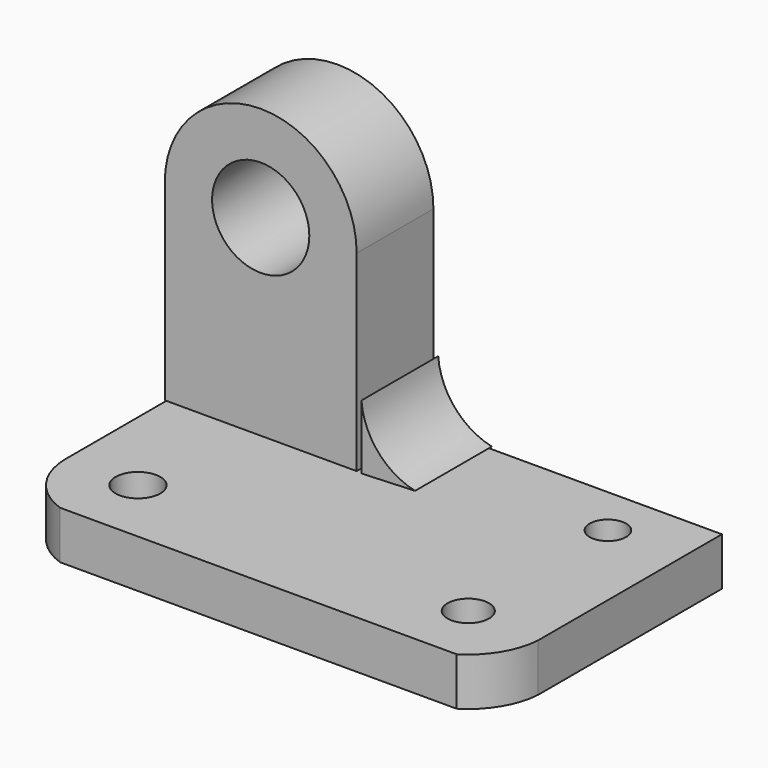
from build123d import *

# Parameters (mm, degrees)
F0_W      = 63.5
F0_H      = 6.35
F1_DEPTH  = 38.1
F2_W      = 25.4
F2_H      = 25.4
F3_DEPTH  = 12.7
F5_DEPTH  = 12.7
F7_DEPTH  = 6.35
F8_R      = 6.433108
F9_DEPTH  = 12.7
F10_R     = 2.414951
F10_R_2   = 2.749165
F10_R_3   = 2.964845
F11_DEPTH = 6.35


with BuildPart() as f1:
    # F0 (on Front) → F1 (new body)
    with BuildSketch(Plane.XZ):
        with Locations((-38.883258, 3.175)):
            Rectangle(F0_W, F0_H)
    extrude(amount=F1_DEPTH)

    # F6 (on face) → F7 (cut)
    with BuildSketch(Plane.XY.offset(6.35)):
        with BuildLine():
            ThreePointArc((-64.263351, -38.1), (-68.81105, -34.726496), (-70.633258, -29.365372))
            Line((-70.633258, -29.365372), (-70.633258, -38.1))
            Line((-70.633258, -38.1), (-64.263351, -38.1))
        make_face()
        with BuildLine():
            ThreePointArc((-7.133258, -30.40603), (-8.517957, -34.817601), (-11.774521, -38.1))
            Line((-11.774521, -38.1), (-7.133258, -38.1))
            Line((-7.133258, -38.1), (-7.133258, -30.40603))
        make_face()
    extrude(amount=-F7_DEPTH, mode=Mode.SUBTRACT)

    # F10 (on face) → F11 (cut)
    with BuildSketch(Plane.XY.offset(6.35)):
        with Locations((-16.892102, -6.6675)):
            Circle(F10_R)
        with Locations((-16.892102, -29.766033)):
            Circle(F10_R_2)
        with Locations((-61.131514, -29.126037)):
            Circle(F10_R_3)
    extrude(amount=-F11_DEPTH, mode=Mode.SUBTRACT)


with BuildPart() as f3:
    # F2 (on Front) → F3 (new body)
    with BuildSketch(Plane.XZ):
        with BuildLine():
            ThreePointArc((-45.321436, 31.851328), (-58.021436, 44.551328), (-70.721436, 31.851328))
            Line((-70.721436, 31.851328), (-45.321436, 31.851328))
        make_face()
        with Locations((-58.021436, 19.151328)):
            Rectangle(F2_W, F2_H)
    extrude(amount=F3_DEPTH)

    # F8 (on face) → F9 (cut)
    with BuildSketch(Plane.XZ.offset(12.7)):
        with Locations((-58.021436, 31.851328)):
            Circle(F8_R)
    extrude(amount=-F9_DEPTH, mode=Mode.SUBTRACT)


with BuildPart() as f5:
    # F4 (on Front) → F5 (new body)
    with BuildSketch(Plane.XZ):
        with BuildLine():
            ThreePointArc((-37.59335, 6.6675), (-42.493733, 9.614386), (-44.686437, 14.895478))
            Line((-44.686437, 14.895478), (-44.686437, 6.383777))
            Line((-44.686437, 6.383777), (-37.59335, 6.6675))
        make_face()
    extrude(amount=F5_DEPTH)


solid = Compound([f1.part, f3.part, f5.part])
